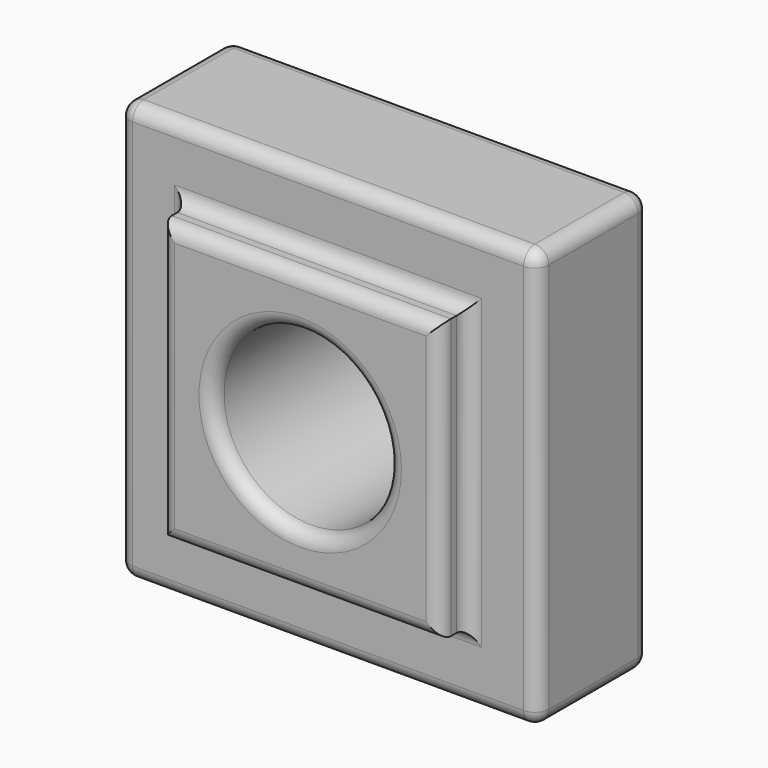
from build123d import *

# Parameters (mm, degrees)
F0_W     = 101.6
F0_H     = 101.6
F0_R     = 31.75
F1_DEPTH = 38.1
F0_W_2   = 152.4
F0_H_2   = 152.4
F2_DEPTH = 25.4
F3_R     = 5.08


with BuildPart() as f1:
    # F0 (on Front) → F1 (new body, symmetric)
    with BuildSketch(Plane.XZ):
        Rectangle(F0_W, F0_H)
        Circle(F0_R, mode=Mode.SUBTRACT)
    extrude(amount=F1_DEPTH, both=True)

    # F0 (on Front) → F2 (join, symmetric)
    with BuildSketch(Plane.XZ):
        Rectangle(F0_W_2, F0_H_2)
        Rectangle(F0_W, F0_H, mode=Mode.SUBTRACT)
    extrude(amount=F2_DEPTH, both=True)

    # F3
    f3_edges = [f1.edges().sort_by_distance(p)[0] for p in [
        (76.2, 25.4, 0),
        (0, 25.4, 76.2),
        (-76.2, 25.4, 0),
        (0, 25.4, -76.2),
        (0, 25.4, 50.8),
        (50.8, 25.4, 0),
        (0, 25.4, -50.8),
        (-50.8, 25.4, 0),
        (50.8, 38.1, 0),
        (0, 38.1, 50.8),
        (-50.8, 38.1, 0),
        (0, 38.1, -50.8),
        (-31.75, 38.1, 0),
        (50.8, -38.1, 0),
        (0, -38.1, 50.8),
        (-50.8, -38.1, 0),
        (0, -38.1, -50.8),
        (-31.75, -38.1, 0),
        (76.2, -25.4, 0),
        (0, -25.4, 76.2),
        (-76.2, -25.4, 0),
        (0, -25.4, -76.2),
        (0, -25.4, 50.8),
        (50.8, -25.4, 0),
        (0, -25.4, -50.8),
        (-50.8, -25.4, 0),
        (76.2, 0, -76.2),
        (-76.2, 0, -76.2),
        (76.2, 0, 76.2),
        (-76.2, 0, 76.2),
    ]]
    fillet(f3_edges, radius=F3_R)


solid = f1.part
